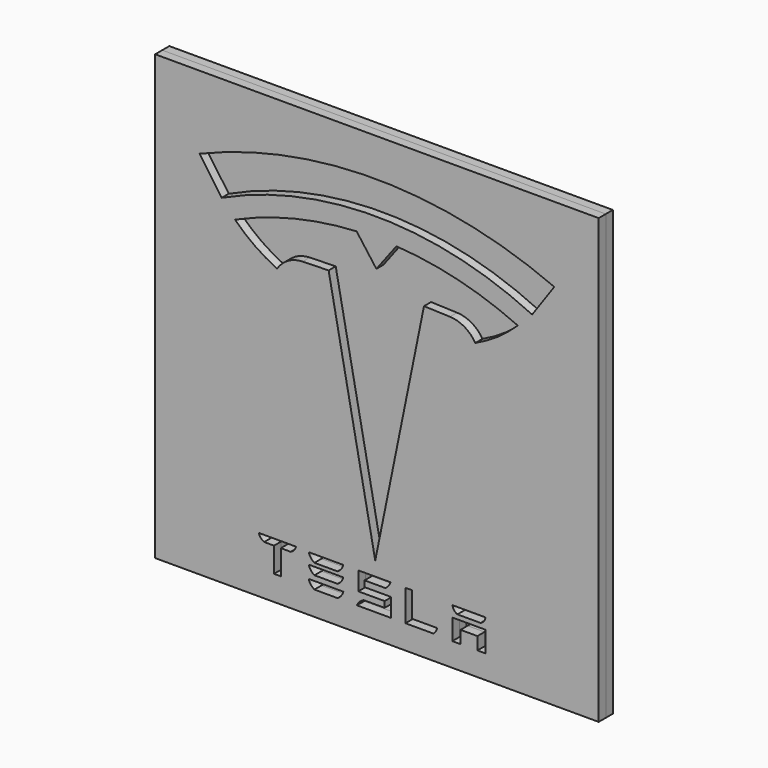
from build123d import *

# Parameters (mm, degrees)
F0_W     = 100
F0_H     = 100
F1_DEPTH = 2
F2_W     = 100
F2_H     = 100
F3_DEPTH = 2
F5_DEPTH = 10


with BuildPart() as f1:
    # F0 (on Front) → F1 (new body)
    with BuildSketch(Plane.XZ):
        Rectangle(F0_W, F0_H)
    extrude(amount=F1_DEPTH)


with BuildPart() as f3:
    # F2 (on face) → F3 (new body)
    with BuildSketch(Plane.XZ.offset(2)):
        Rectangle(F2_W, F2_H)
        with BuildLine():
            ThreePointArc((-22.496123, 16.377952), (-27.533795, 19.298471), (-32, 23.034858))
            ThreePointArc((-32, 23.034858), (-18.590811, 27.58958), (-4.57697, 29.630187))
            Line((-4.57697, 29.630187), (-0.117529, 23.624356))
            Line((-0.117529, 23.624356), (4.395257, 29.590207))
            ThreePointArc((4.395257, 29.590207), (18.390357, 27.424793), (31.758422, 22.750752))
            ThreePointArc((31.758422, 22.750752), (31.752454, 22.744927), (31.746485, 22.739104))
            ThreePointArc((31.746485, 22.739104), (27.252223, 19.049593), (22.195598, 16.178807))
            ThreePointArc((22.195598, 16.178807), (19.753952, 18.568273), (16.472125, 19.517373))
            Line((16.472125, 19.517373), (10.617825, 19.722229))
            Line((10.617825, 19.722229), (-0.37584, -34.345129))
            Line((-0.37584, -34.345129), (-10.887232, 19.818055))
            Line((-10.887232, 19.818055), (-16.743125, 19.665379))
            ThreePointArc((-16.743125, 19.665379), (-20.03328, 18.745564), (-22.496123, 16.377952))
        make_face(mode=Mode.SUBTRACT)
        with BuildLine():
            ThreePointArc((-40, 33.516364), (0.041817, 41.42999), (40, 33.10436))
            Line((40, 33.10436), (35, 25.976955))
            ThreePointArc((35, 25.976955), (0.046133, 34.020994), (-35, 26.38896))
            Line((-35, 26.38896), (-40, 33.516364))
        make_face(mode=Mode.SUBTRACT)
    extrude(amount=F3_DEPTH)


with BuildPart() as f5_tool:
    # F4 (on face) → F5 (new body)
    with BuildSketch(Plane.XZ.offset(4)):
        with BuildLine():
            Line((-18.240365, -37.401031), (-26.619467, -37.401031))
            ThreePointArc((-26.619467, -37.401031), (-26.192441, -38.253458), (-25.422453, -38.815686))
            Line((-25.422453, -38.815686), (-23.19389, -38.815686))
            Line((-23.19389, -38.815686), (-23.19389, -44.404685))
            Line((-23.19389, -44.404685), (-22.429916, -44.404685))
            Line((-22.429916, -44.404685), (-21.665942, -44.404685))
            Line((-21.665942, -44.404685), (-21.665942, -38.815686))
            Line((-21.665942, -38.815686), (-19.43738, -38.815686))
            ThreePointArc((-19.43738, -38.815686), (-18.667391, -38.253458), (-18.240365, -37.401031))
        make_face()
        with BuildLine():
            Line((-11.472773, -37.559853), (-15.372773, -37.559853))
            ThreePointArc((-15.372773, -37.559853), (-14.897399, -38.537163), (-14.085712, -39.259853))
            Line((-14.085712, -39.259853), (-11.472773, -39.259853))
            Line((-11.472773, -39.259853), (-8.859835, -39.259853))
            ThreePointArc((-8.859835, -39.259853), (-8.048148, -38.537163), (-7.572773, -37.559853))
            Line((-7.572773, -37.559853), (-11.472773, -37.559853))
        make_face()
        with BuildLine():
            Line((-11.472773, -40.034259), (-15.372773, -40.034259))
            ThreePointArc((-15.372773, -40.034259), (-14.897399, -41.01157), (-14.085712, -41.734259))
            Line((-14.085712, -41.734259), (-11.472773, -41.734259))
            Line((-11.472773, -41.734259), (-8.859835, -41.734259))
            ThreePointArc((-8.859835, -41.734259), (-8.048148, -41.01157), (-7.572773, -40.034259))
            Line((-7.572773, -40.034259), (-11.472773, -40.034259))
        make_face()
        with BuildLine():
            Line((-11.472773, -42.871185), (-15.372773, -42.871185))
            ThreePointArc((-15.372773, -42.871185), (-14.897399, -43.848496), (-14.085712, -44.571185))
            Line((-14.085712, -44.571185), (-11.472773, -44.571185))
            Line((-11.472773, -44.571185), (-8.859835, -44.571185))
            ThreePointArc((-8.859835, -44.571185), (-8.048148, -43.848496), (-7.572773, -42.871185))
            Line((-7.572773, -42.871185), (-11.472773, -42.871185))
        make_face()
        with BuildLine():
            ThreePointArc((1.932252, -39.067592), (2.627765, -38.402056), (3.056768, -37.540294))
            Line((3.056768, -37.540294), (-4.187748, -37.540294))
            Line((-4.187748, -37.540294), (-4.187748, -41.707016))
            Line((-4.187748, -41.707016), (1.746776, -41.707016))
            Line((1.746776, -41.707016), (1.746776, -43.0546))
            Line((1.746776, -43.0546), (-2.973224, -43.0546))
            ThreePointArc((-2.973224, -43.0546), (-3.889615, -43.665179), (-4.499701, -44.581897))
            Line((-4.499701, -44.581897), (3.146776, -44.581897))
            Line((3.146776, -44.581897), (3.146776, -40.415176))
            Line((3.146776, -40.415176), (-2.787748, -40.415176))
            Line((-2.787748, -40.415176), (-2.787748, -39.067592))
            Line((-2.787748, -39.067592), (1.932252, -39.067592))
        make_face()
        with BuildLine():
            Line((7.926718, -37.540294), (6.4395, -37.540294))
            Line((6.4395, -37.540294), (6.4395, -44.581897))
            Line((6.4395, -44.581897), (12.74251, -44.581897))
            ThreePointArc((12.74251, -44.581897), (13.284445, -43.972115), (13.564029, -43.205719))
            Line((13.564029, -43.205719), (7.926718, -43.205719))
            Line((7.926718, -43.205719), (7.926718, -37.540294))
        make_face()
        Polygon((24.532836, -40.002692), (20.763628, -40.002692), (16.99442, -40.002692), (16.99442, -44.700727), (18.858718, -44.700727), (18.858718, -41.84835), (20.763628, -41.84835), (22.668539, -41.84835), (22.668539, -44.700727), (24.532836, -44.700727), align=None)
        with BuildLine():
            Line((20.763628, -37.540294), (17.050337, -37.540294))
            ThreePointArc((17.050337, -37.540294), (17.40084, -38.426274), (18.150285, -39.014615))
            Line((18.150285, -39.014615), (20.763628, -39.014615))
            Line((20.763628, -39.014615), (23.376971, -39.014615))
            ThreePointArc((23.376971, -39.014615), (24.126417, -38.426274), (24.476919, -37.540294))
            Line((24.476919, -37.540294), (20.763628, -37.540294))
        make_face()
    extrude(amount=-F5_DEPTH)


with BuildPart() as f1_1:
    add(f1.part)

    # F5: cut by f5_tool
    add(f5_tool.part, mode=Mode.SUBTRACT)


with BuildPart() as f3_1:
    add(f3.part)

    # F5: cut by f5_tool
    add(f5_tool.part, mode=Mode.SUBTRACT)


solid = Compound([f1_1.part, f3_1.part])
